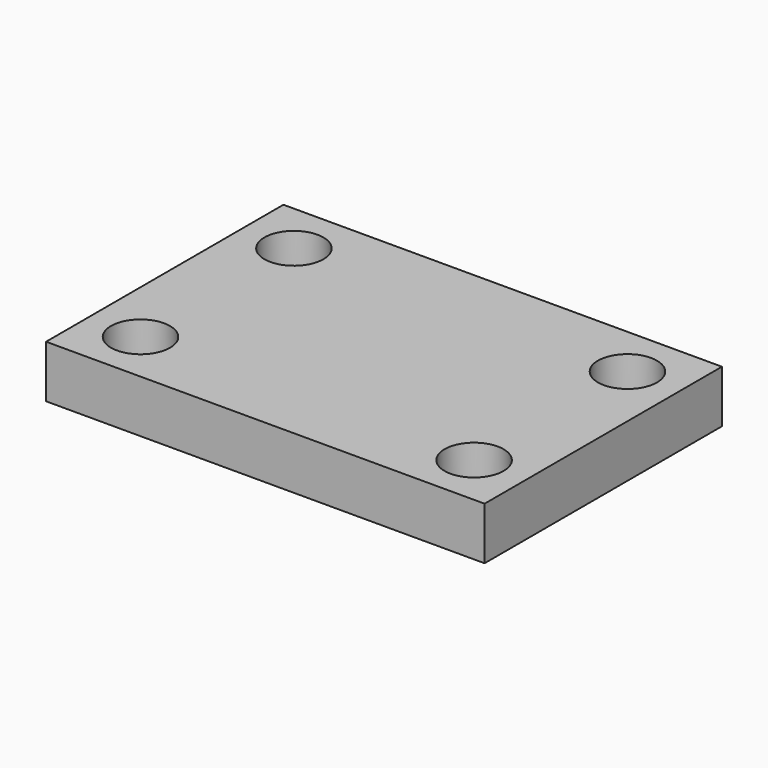
from build123d import *

# Parameters (mm, degrees)
F0_W           = 83.5770890117
F0_H           = 56.5454661846
F1_DEPTH       = 10
F3_D           = 5
F3_CBORE_D     = 11.25
F3_CBORE_DEPTH = 6


with BuildPart() as f1:
    # F0 (on Top) → F1 (new body)
    with BuildSketch(Plane.XY):
        Rectangle(F0_W, F0_H)
    extrude(amount=F1_DEPTH)

    # F3 (through all)
    with Locations(Plane.XY.offset(10)):
        with Locations((-31.7885445058, 18.2727330923), (31.7885445058, 18.2727330923), (31.7885445058, -18.2727330923), (-31.7885445058, -18.2727330923)):
            CounterBoreHole(F3_D / 2, F3_CBORE_D / 2, F3_CBORE_DEPTH)


solid = f1.part
